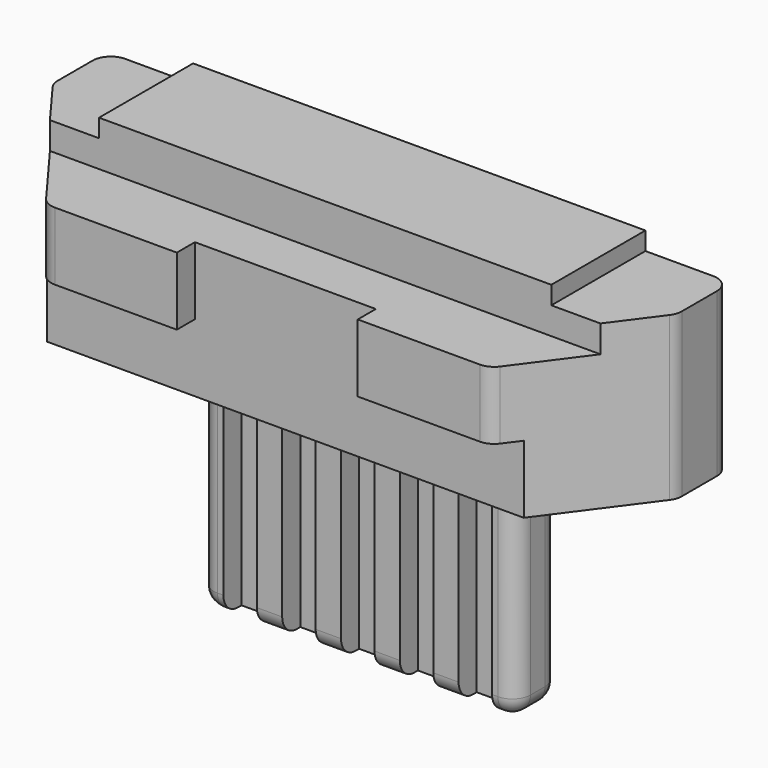
from build123d import *

# Parameters (mm, degrees)
PAD_DEPTH           = 2
FILLET_R            = 0.2
SKETCH001_W         = 6.9
SKETCH001_H         = 0.8
POCKET_DEPTH        = 0.5
SKETCH002_W         = 0.95
SKETCH002_H         = 1.3
POCKET001_DEPTH     = 0.2
SKETCH003_W         = 2
SKETCH003_H         = 1.5
POCKET002_DEPTH     = 0.25
SKETCH004_W         = 6.9
SKETCH004_H         = 0.25
POCKET003_DEPTH     = 0.75
SKETCH005_W         = 4.4
SKETCH005_H         = 0.7
POCKET004_DEPTH     = 0.25
PAD001_DEPTH        = 2.7
FILLET001_R         = 0.2
SKETCH007_W         = 0.37
SKETCH007_H         = 0.25
POCKET005_DEPTH     = 2.7
LINEARPATTERN_COUNT = 5
LINEARPATTERN_PITCH = 0.65


with BuildPart() as part:
    # Sketch → Pad (new body)
    with BuildSketch(Plane.XY):
        Polygon((-3.45, 1), (3.45, 1), (3.45, 0.25), (2.45, -1.1), (-2.45, -1.1), (-3.45, 0.25), align=None)
    extrude(amount=PAD_DEPTH)

    # Fillet
    fillet_edges = [part.edges().sort_by_distance(p)[0] for p in [
        (3.45, 1, 1),
        (3.45, 0.25, 1),
        (2.45, -1.1, 1),
        (-2.45, -1.1, 1),
        (-3.45, 0.25, 1),
        (-3.45, 1, 1),
    ]]
    fillet(fillet_edges, radius=FILLET_R)

    # Sketch001 (on Face5 of Fillet) → Pocket (cut)
    with BuildSketch(Plane.XY.offset(2)):
        with Locations((0, -0.7)):
            Rectangle(SKETCH001_W, SKETCH001_H)
    extrude(amount=-POCKET_DEPTH, mode=Mode.SUBTRACT)

    # Sketch002 (on Face4 of Pocket) → Pocket001 (cut)
    with BuildSketch(Plane.XY.offset(2)):
        with Locations((-2.975, 0.35)):
            Rectangle(SKETCH002_W, SKETCH002_H)
        with Locations((2.975, 0.35)):
            Rectangle(SKETCH002_W, SKETCH002_H)
    extrude(amount=-POCKET001_DEPTH, mode=Mode.SUBTRACT)

    # Sketch003 (on Face8 of Pocket001) → Pocket002 (cut)
    with BuildSketch(Plane.XZ.offset(1.1)):
        with Locations((0, 0.75)):
            Rectangle(SKETCH003_W, SKETCH003_H)
    extrude(amount=-POCKET002_DEPTH, mode=Mode.SUBTRACT)

    # Sketch004 (on Face2 of Pocket002) → Pocket003 (cut)
    with BuildSketch(Plane(origin=(0, 0, 0), x_dir=(1, 0, 0), z_dir=(0, 0, -1))):
        with Locations((0, 0.975)):
            Rectangle(SKETCH004_W, SKETCH004_H)
    extrude(amount=-POCKET003_DEPTH, mode=Mode.SUBTRACT)

    # Sketch005 (on Face12 of Pocket003) → Pocket004 (cut)
    with BuildSketch(Plane(origin=(0, 1, 0), x_dir=(-1, 0, 0), z_dir=(0, 1, 0))):
        with Locations((0, 1.4)):
            Rectangle(SKETCH005_W, SKETCH005_H)
    extrude(amount=-POCKET004_DEPTH, mode=Mode.SUBTRACT)

    # Sketch006 (on Face2 of Pocket004) → Pad001 (join)
    with BuildSketch(Plane(origin=(0, 0, 0), x_dir=(1, 0, 0), z_dir=(0, 0, -1))):
        with BuildLine():
            Line((-1.55, -0.15), (1.55, -0.15))
            ThreePointArc((1.750006, -0.35), (1.691425, -0.208577), (1.55, -0.15))
            Line((1.750006, -0.35), (1.750006, -0.55))
            ThreePointArc((1.550006, -0.75), (1.691427, -0.691421), (1.750006, -0.55))
            Line((1.550006, -0.75), (-1.549994, -0.75))
            ThreePointArc((-1.749994, -0.55), (-1.691416, -0.691421), (-1.549994, -0.75))
            Line((-1.749994, -0.35), (-1.749994, -0.55))
            ThreePointArc((-1.55, -0.15), (-1.691418, -0.208581), (-1.749994, -0.35))
        make_face()
    extrude(amount=PAD001_DEPTH)

    # Fillet001
    fillet001_edges = [part.edges().sort_by_distance(p)[0] for p in [
        (-1.691418, 0.208581, -2.7),
        (0, 0.15, -2.7),
        (1.691425, 0.208577, -2.7),
        (1.750006, 0.45, -2.7),
        (1.691427, 0.691421, -2.7),
        (6e-06, 0.75, -2.7),
        (-1.691416, 0.691421, -2.7),
        (-1.749994, 0.45, -2.7),
    ]]
    fillet(fillet001_edges, radius=FILLET001_R)

    # Sketch007 (on Face8 of Fillet001) → Pocket005 (cut)
    with BuildSketch(Plane(origin=(0, 0, -2.7), x_dir=(1, 0, 0), z_dir=(0, 0, -1))):
        with Locations((-1.3, -0.275)):
            Rectangle(SKETCH007_W, SKETCH007_H)
    pocket005 = extrude(amount=-POCKET005_DEPTH, mode=Mode.SUBTRACT)

    # LinearPattern: Pocket005 ×5
    with Locations(*[(i * LINEARPATTERN_PITCH, 0, 0) for i in range(1, LINEARPATTERN_COUNT)]):
        add(pocket005, mode=Mode.SUBTRACT)


solid = part.part
